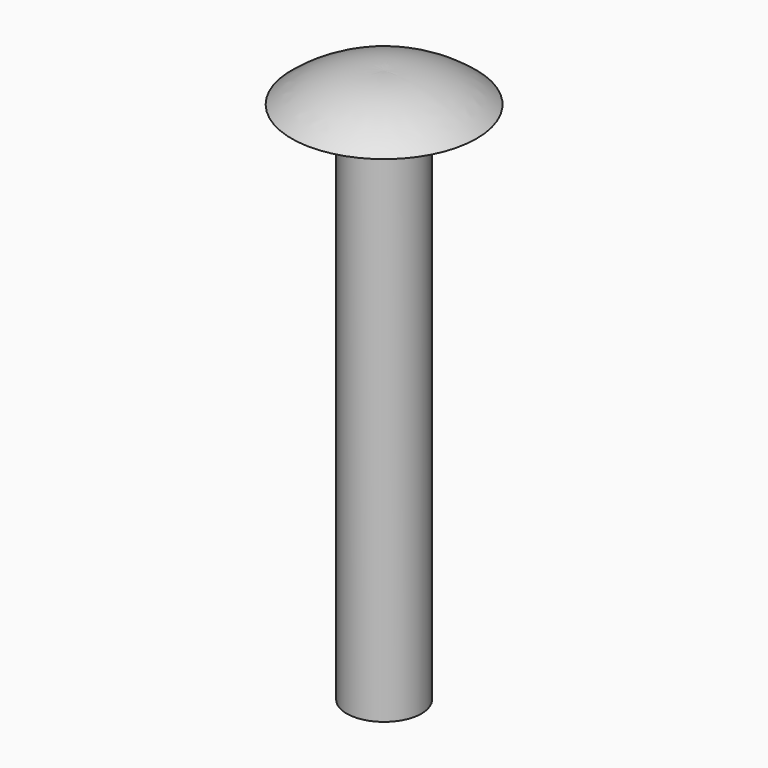
from build123d import *

# Parameters (mm, degrees)
F2_R     = 2.5
F3_DEPTH = 35


with BuildPart() as f1:
    # F0 (on Front) → F1 (revolve)
    with BuildSketch(Plane.XZ):
        with BuildLine():
            Line((0, 2), (0, 0))
            Line((0, 0), (6.178174, 0))
            ThreePointArc((6.178174, 0), (3.279264, 1.587474), (0, 2))
        make_face()
    revolve(axis=Axis((0, 0, 1), (0, 0, 1)))

    # F2 (on face) → F3 (join)
    with BuildSketch(Plane(origin=(0, 0, 0), x_dir=(1, 0, 0), z_dir=(0, 0, -1))):
        Circle(F2_R)
        Circle(F2_R)
    extrude(amount=F3_DEPTH)


solid = f1.part
